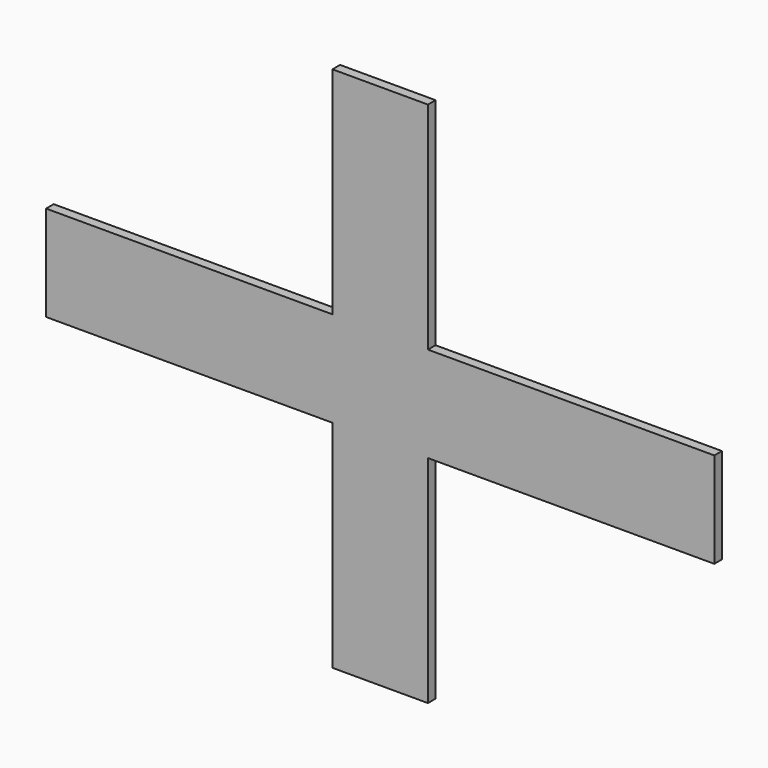
from build123d import *

# Parameters (mm, degrees)
F0_W     = 75
F0_H     = 25
F0_W_2   = 25
F0_H_2   = 56.5
F1_DEPTH = 2.5


with BuildPart() as f1:
    # F0 (on Front) → F1 (new body)
    with BuildSketch(Plane.XZ):
        with Locations((50, 0)):
            Rectangle(F0_W, F0_H)
        with Locations((0, -40.75)):
            Rectangle(F0_W_2, F0_H_2)
        Rectangle(F0_W_2, F0_H)
        with Locations((-50, 0)):
            Rectangle(F0_W, F0_H)
        with Locations((0, 40.75)):
            Rectangle(F0_W_2, F0_H_2)
    extrude(amount=F1_DEPTH)


solid = f1.part
